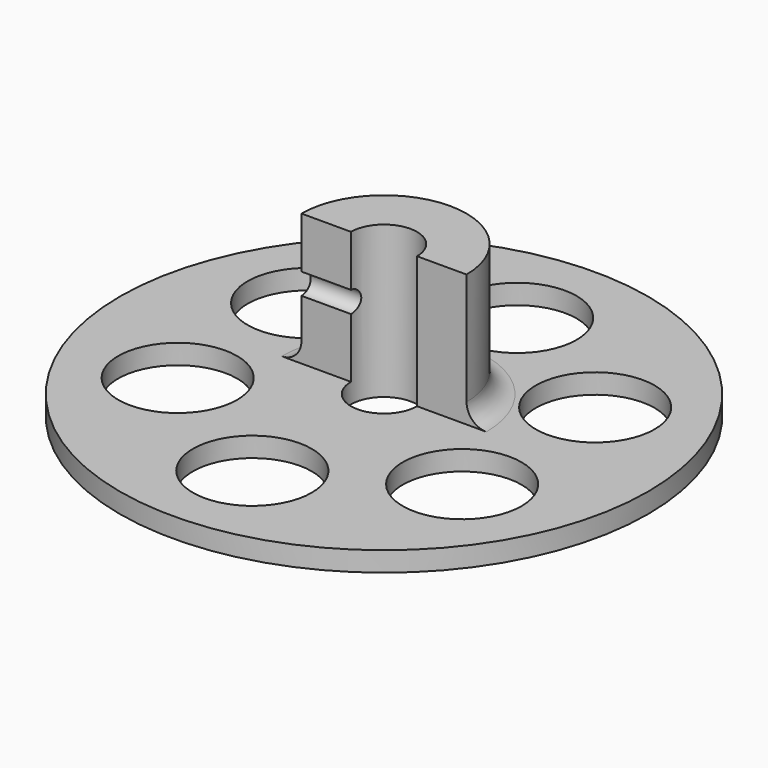
from build123d import *

# Parameters (mm, degrees)
F0_R     = 40
F0_R_2   = 9
F1_DEPTH = 3
F2_DEPTH = 18
F3_DEPTH = 25
F4_R     = 3
F5_R     = 1.614
F6_DEPTH = 40
F7_DEPTH = 5


with BuildPart() as f1:
    # F0 (on Top) → F1 (new body)
    with BuildSketch(Plane.XY):
        Circle(F0_R)
        with Locations((-21.6333586723, -12.0185324922)):
            Circle(F0_R_2, mode=Mode.SUBTRACT)
        with Locations((0.1144621056, -25.0672250986)):
            Circle(F0_R_2, mode=Mode.SUBTRACT)
        with Locations((21.6333605349, -12.247457169)):
            Circle(F0_R_2, mode=Mode.SUBTRACT)
        with Locations((-21.6506350946, 12.5)):
            Circle(F0_R_2, mode=Mode.SUBTRACT)
        with BuildLine():
            ThreePointArc((-12.5, 0), (0, 12.5), (12.5, 0))
            Line((12.5, 0), (5, 0))
            ThreePointArc((5, 0), (0, -5), (-5, 0))
            Line((-5, 0), (-12.5, 0))
        make_face(mode=Mode.SUBTRACT)
        with Locations((21.6333605349, 12.934230268)):
            Circle(F0_R_2, mode=Mode.SUBTRACT)
        with Locations((0.1144621056, 25.0672250986)):
            Circle(F0_R_2, mode=Mode.SUBTRACT)
        with BuildLine():
            Line((5, 0), (12.5, 0))
            ThreePointArc((12.5, 0), (0, 12.5), (-12.5, 0))
            Line((-12.5, 0), (-5, 0))
            ThreePointArc((-5, 0), (0, 5), (5, 0))
        make_face()
    extrude(amount=F1_DEPTH)

    # F0 (on Top) → F2 (join)
    with BuildSketch(Plane.XY):
        with BuildLine():
            Line((5, 0), (12.5, 0))
            ThreePointArc((12.5, 0), (0, 12.5), (-12.5, 0))
            Line((-12.5, 0), (-5, 0))
            ThreePointArc((-5, 0), (0, 5), (5, 0))
        make_face()
    extrude(amount=F2_DEPTH)

    # F0 (on Top) → F3 (cut)
    with BuildSketch(Plane.XY):
        Circle(F0_R)
        with Locations((-21.6333586723, -12.0185324922)):
            Circle(F0_R_2, mode=Mode.SUBTRACT)
        with Locations((0.1144621056, -25.0672250986)):
            Circle(F0_R_2, mode=Mode.SUBTRACT)
        with Locations((21.6333605349, -12.247457169)):
            Circle(F0_R_2, mode=Mode.SUBTRACT)
        with Locations((-21.6506350946, 12.5)):
            Circle(F0_R_2, mode=Mode.SUBTRACT)
        with BuildLine():
            ThreePointArc((-12.5, 0), (0, 12.5), (12.5, 0))
            Line((12.5, 0), (5, 0))
            ThreePointArc((5, 0), (0, -5), (-5, 0))
            Line((-5, 0), (-12.5, 0))
        make_face(mode=Mode.SUBTRACT)
        with Locations((21.6333605349, 12.934230268)):
            Circle(F0_R_2, mode=Mode.SUBTRACT)
        with Locations((0.1144621056, 25.0672250986)):
            Circle(F0_R_2, mode=Mode.SUBTRACT)
    extrude(amount=-F3_DEPTH, mode=Mode.SUBTRACT)

    # F4
    f4_edges = [f1.edges().sort_by_distance(p)[0] for p in [
        (0, 12.5, 3),
    ]]
    fillet(f4_edges, radius=F4_R)

    # F5 (on Right) → F6 (cut)
    with BuildSketch(Plane.YZ):
        with Locations((0, 13.645786792)):
            Circle(F5_R)
    extrude(amount=-F6_DEPTH, mode=Mode.SUBTRACT)

    # F7 (add): a face of the model
    f7_faces = [f1.faces().sort_by_distance(p)[0] for p in [
        (0, 5.9114693148, 18),
    ]]
    extrude(f7_faces, amount=F7_DEPTH)


solid = f1.part
